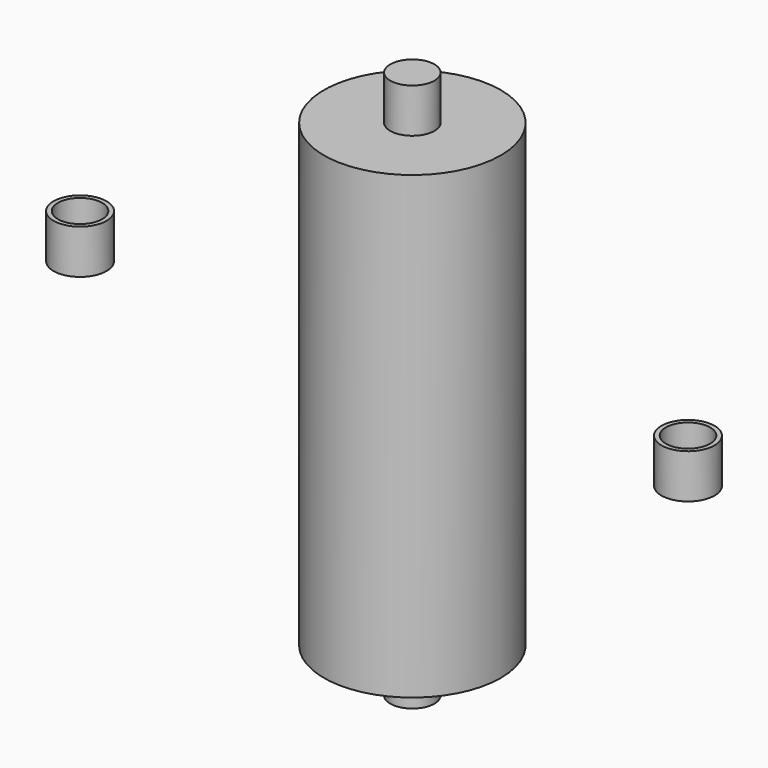
from build123d import *

# Parameters (mm, degrees)
F0_R     = 12.5
F1_DEPTH = 155
F0_R_2   = 50
F2_DEPTH = 130
F3_R     = 15
F3_R_2   = 12.5
F4_DEPTH = 25


with BuildPart() as f1:
    # F0 (on Top) → F1 (new body, symmetric)
    with BuildSketch(Plane.XY):
        Circle(F0_R)
    extrude(amount=F1_DEPTH, both=True)

    # F0 (on Top) → F2 (join, symmetric)
    with BuildSketch(Plane.XY):
        Circle(F0_R_2)
        Circle(F0_R, mode=Mode.SUBTRACT)
    extrude(amount=F2_DEPTH, both=True)


with BuildPart() as f4:
    # F3 (on Top) → F4 (new body)
    with BuildSketch(Plane.XY):
        with Locations((-187.79898, 0)):
            Circle(F3_R)
        with Locations((-187.79898, 0)):
            Circle(F3_R_2, mode=Mode.SUBTRACT)
        with Locations((155.783349, 0)):
            Circle(F3_R)
        with Locations((155.783349, 0)):
            Circle(F3_R_2, mode=Mode.SUBTRACT)
    extrude(amount=F4_DEPTH)


solid = Compound([f1.part, f4.part])
